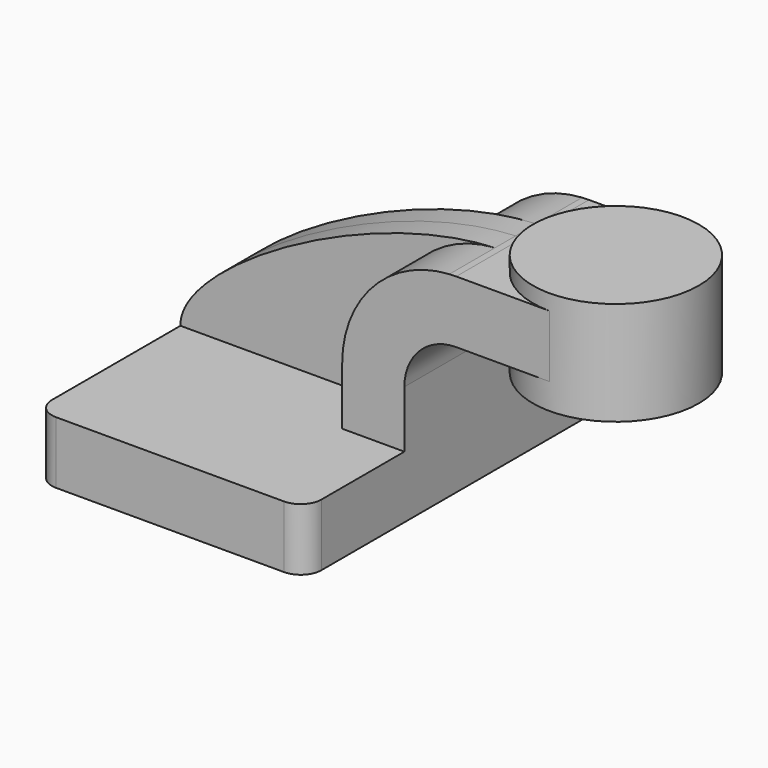
from build123d import *

# Parameters (mm, degrees)
F1_DEPTH = 63.5
F0_W     = 25.4
F0_H     = 19.05
F2_DEPTH = 25.4
F3_DEPTH = 7.9375
F5_R     = 6.35


with BuildPart() as f1:
    # F0 (on Front) → F1 (new body, symmetric)
    with BuildSketch(Plane.XZ):
        Polygon((22.225, 9.525), (-41.275, 9.525), (-41.275, -9.525), (41.275, -9.525), (41.275, 9.525), align=None)
    extrude(amount=F1_DEPTH, both=True)

    # F0 (on Front) → F2 (join, symmetric)
    with BuildSketch(Plane.XZ):
        with BuildLine():
            Line((22.225, 27.0002), (22.225, 9.525))
            Line((22.225, 9.525), (41.275, 9.525))
            Line((41.275, 9.525), (41.275, 27.0002))
            ThreePointArc((41.275, 27.0002), (45.9246798487, 38.2255201513), (57.15, 42.8752))
            Line((57.15, 42.8752), (60.325, 42.8752))
            Line((60.325, 42.8752), (60.325, 61.9252))
            Line((60.325, 61.9252), (57.15, 61.9252))
            add(Edge.make_bspline(
                [(55.0505614157, 61.8620413546), (55.7553301677, 61.8927275326), (56.4552712622, 61.9138638229), (57.15, 61.9252)],
                knots=[109.5945481274, 109.5945481274, 109.5945481274, 109.5945481274, 111.5045361635, 111.5045361635, 111.5045361635, 111.5045361635], degree=3))
            ThreePointArc((55.0505614157, 61.8620413546), (31.7228637323, 50.9421373949), (22.225, 27.0002))
        make_face()
        with Locations((73.025, 52.4002)):
            Rectangle(F0_W, F0_H)
        with Locations((73.025, 52.4002)):
            Rectangle(F0_W, F0_H)
    extrude(amount=F2_DEPTH, both=True)

    # F0 (on Front) → F3 (join, symmetric)
    with BuildSketch(Plane.XZ):
        with BuildLine():
            add(Edge.make_bspline(
                [(-41.275, 9.525), (-41.7230096013, 26.8981728719), (14.611139049, 60.1012775438), (55.0505614157, 61.8620413546)],
                knots=[0, 0, 0, 0, 109.5945481274, 109.5945481274, 109.5945481274, 109.5945481274], degree=3))
            Line((-41.275, 9.525), (22.225, 9.525))
            Line((22.225, 9.525), (22.225, 27.0002))
            ThreePointArc((22.225, 27.0002), (31.7228637323, 50.9421373949), (55.0505614157, 61.8620413546))
        make_face()
    extrude(amount=F3_DEPTH, both=True)

    # F0 (on Front) → F4 (revolve)
    with BuildSketch(Plane.XZ):
        Polygon((85.725, 66.675), (85.725, 61.9252), (85.725, 42.8752), (85.725, 34.925), (111.125, 34.925), (111.125, 66.675), align=None)
    revolve(axis=Axis((85.725, 0, 50.8), (0, 0, 1)))

    # F5
    f5_edges = [f1.edges().sort_by_distance(p)[0] for p in [
        (-41.275, -63.5, 0),
        (41.275, -63.5, 0),
        (41.275, 63.5, 0),
        (-41.275, 63.5, 0),
    ]]
    fillet(f5_edges, radius=F5_R)


solid = f1.part
